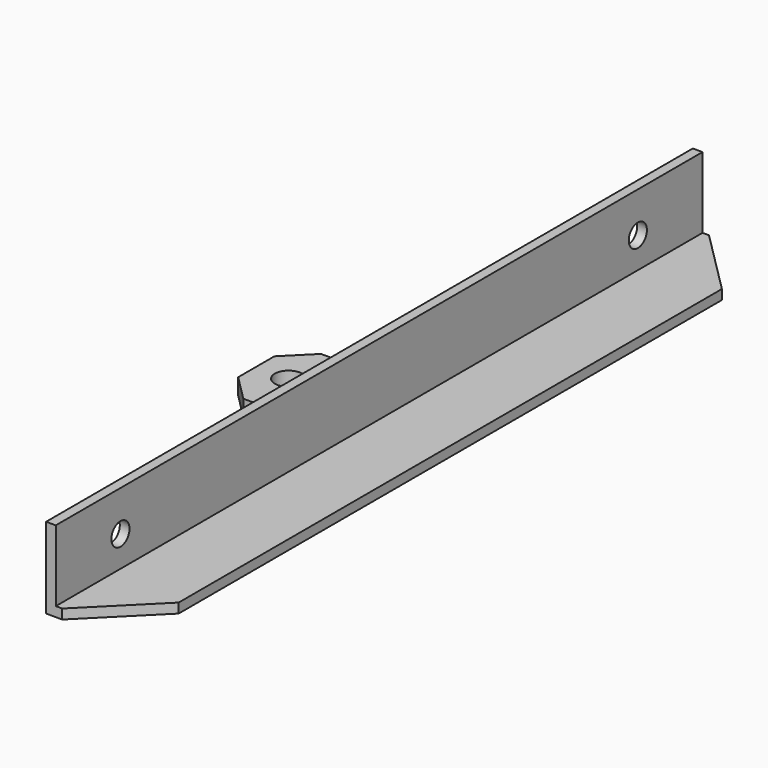
from build123d import *

# Parameters (mm, degrees)
F1_DEPTH = 125
F2_SIZE  = 20
F3_W     = 35
F3_H     = 30
F3_R     = 4.25
F4_DEPTH = 5
F5_SIZE  = 8
F6_R     = 3.5
F7_DEPTH = 25


with BuildPart() as f1:
    # F0 (on Front) → F1 (new body, symmetric)
    with BuildSketch(Plane.XZ):
        Polygon((0, 25), (0, 0), (25, 0), (25, 3), (3, 3), (3, 25), align=None)
    extrude(amount=F1_DEPTH, both=True)

    # F2
    f2_edges = [f1.edges().sort_by_distance(p)[0] for p in [
        (25, -125, 1.5),
        (25, 125, 1.5),
    ]]
    chamfer(f2_edges, length=F2_SIZE)

    # F3 (on Top) → F4 (join)
    with BuildSketch(Plane.XY):
        with Locations((-17.5, 0)):
            Rectangle(F3_W, F3_H)
        with Locations((-25, 0)):
            Circle(F3_R, mode=Mode.SUBTRACT)
    extrude(amount=F4_DEPTH)

    # F5
    f5_edges = [f1.edges().sort_by_distance(p)[0] for p in [
        (-35, -15, 2.5),
        (-35, 15, 2.5),
    ]]
    chamfer(f5_edges, length=F5_SIZE)

    # F6 (on Right) → F7 (cut)
    with BuildSketch(Plane.YZ):
        with Locations((100, 12.5)):
            Circle(F6_R)
        with Locations((-100, 12.5)):
            Circle(F6_R)
    extrude(amount=F7_DEPTH, mode=Mode.SUBTRACT)


solid = f1.part
